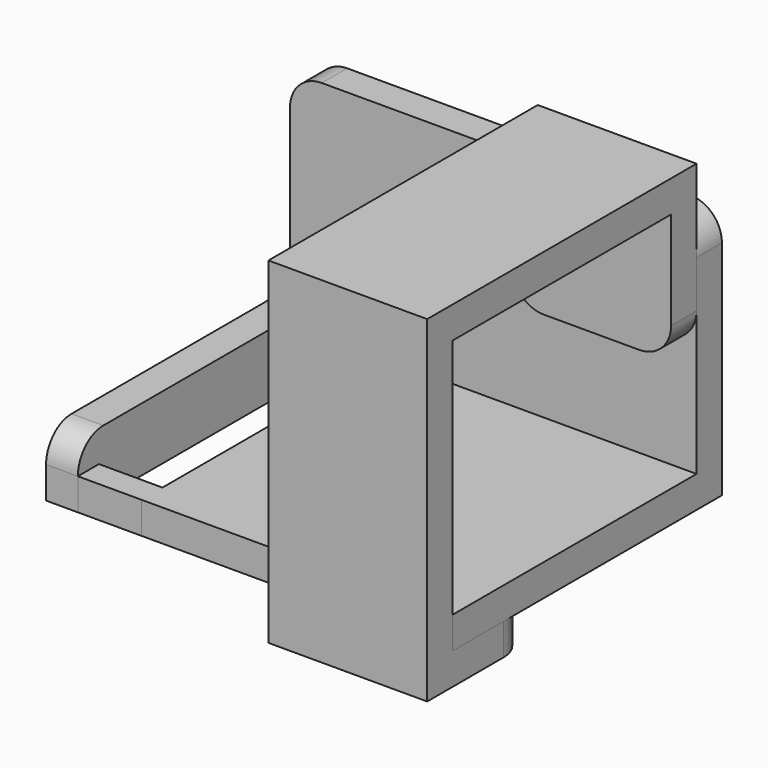
from build123d import *

# Parameters (mm, degrees)
F0_W     = 10
F0_H     = 4.151869
F1_DEPTH = 5
F0_W_2   = 5
F0_H_2   = 5
F2_DEPTH = 10
F3_DEPTH = 40
F4_R     = 5
F6_DEPTH = 25
F7_R     = 5


with BuildPart() as f1:
    # F0 (on Top) → F1 (new body)
    with BuildSketch(Plane.XY):
        Polygon((24.5, -21.5), (24.5, 21.5), (-24.5, 21.5), (-24.5, -17.348131), (-24.5, -21.5), align=None)
        with Locations((-29.5, -19.424065)):
            Rectangle(F0_W, F0_H)
        Polygon((-24.5, 21.5), (24.5, 21.5), (24.5, 26.5), (-34.5, 26.5), (-34.5, 21.5), align=None)
    extrude(amount=F1_DEPTH)

    # F0 (on Top) → F2 (join)
    with BuildSketch(Plane.XY):
        Polygon((-34.5, -17.348131), (-34.5, 21.5), (-39.5, 21.5), (-39.5, -21.5), (-34.5, -21.5), align=None)
        with Locations((-37, 24)):
            Rectangle(F0_W_2, F0_H_2)
    extrude(amount=F2_DEPTH)

    # F0 (on Top) → F3 (join)
    with BuildSketch(Plane.XY):
        Polygon((-34.5, 26.5), (24.5, 26.5), (24.5, 31.5), (-39.5, 31.5), (-39.5, 26.5), align=None)
    extrude(amount=F3_DEPTH)

    # F4
    f4_edges = [f1.edges().sort_by_distance(p)[0] for p in [
        (-39.5, 29, 40),
        (24.5, 29, 40),
        (-37, -21.5, 10),
        (-37, 26.5, 10),
    ]]
    fillet(f4_edges, radius=F4_R)


with BuildPart() as f6:
    # F5 (on face) → F6 (new body)
    with BuildSketch(Plane.YZ.offset(24.5)):
        Polygon((-6.5, -5), (-6.5, 0), (-21.5, 0), (-26.5, 0), (-26.5, -5), align=None)
        Polygon((-26.5, 0), (-21.5, 0), (-21.5, 5), (-21.5, 43), (-21.5, 48), (-26.5, 48), align=None)
        Polygon((-21.5, 48), (-21.5, 43), (21.5, 43), (26.5, 43), (26.5, 48), align=None)
        Polygon((26.5, 22.594964), (26.5, 35), (26.5, 43), (21.5, 43), (21.5, 22.594964), align=None)
    extrude(amount=-F6_DEPTH)

    # F7
    f7_edges = [f6.edges().sort_by_distance(p)[0] for p in [
        (24.5, 24, 22.594964),
        (-0.5, 24, 22.594964),
        (24.5, -6.5, -2.5),
        (-0.5, -6.5, -2.5),
    ]]
    fillet(f7_edges, radius=F7_R)


solid = Compound([f1.part, f6.part])
